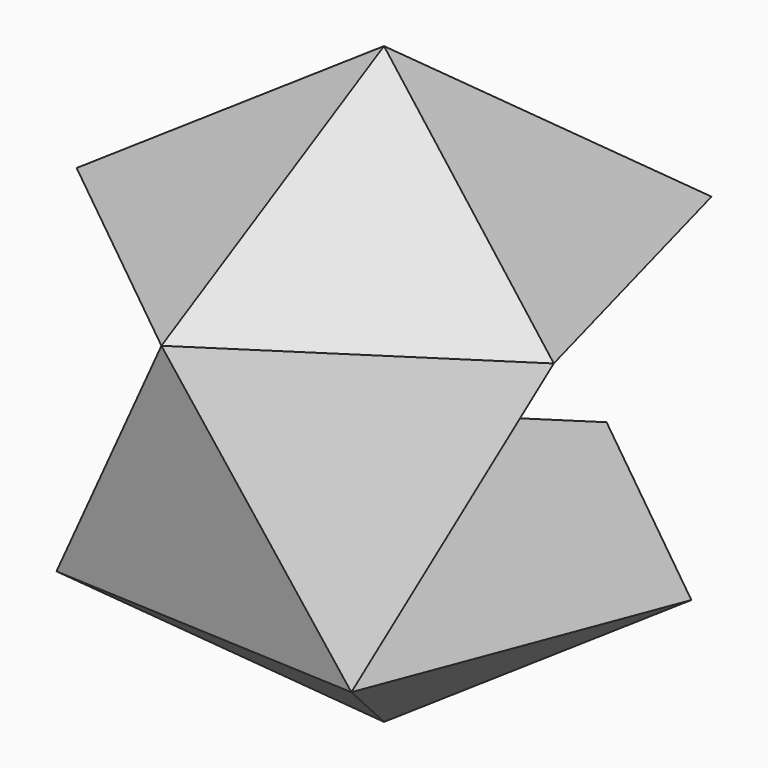
from build123d import *


with BuildPart() as f3:
    # F0 (on Top) → F3 section 0
    with BuildSketch(Plane.XY, mode=Mode.PRIVATE) as f3_s0:
        Polygon((-0.821367, -0.221276), (-0.043371, -0.849544), (0.794563, -0.303772), (0.534437, 0.661803), (-0.464262, 0.712789), align=None)
    loft([f3_s0.sketch, Vertex(0, 0, 0.52573)])



with BuildPart() as f9:
    # F6 (on offset) → F9 section 0
    with BuildSketch(Plane.XY.offset(-0.88113), mode=Mode.PRIVATE) as f9_s0:
        Polygon((-0.534437, -0.661803), (0.464262, -0.712789), (0.821367, 0.221276), (0.043371, 0.849544), (-0.794563, 0.303772), align=None)
    loft([Vertex(0, 0, -1.40686), f9_s0.sketch])


with BuildPart() as f3_1:
    add(f3.part)

    add(f9.part)  # F12 merges F9
    # F11 (on face) → F12 section 0
    with BuildSketch(Plane.XY.offset(-0.88113), mode=Mode.PRIVATE) as f12_s0:
        Polygon((0.464262, -0.712789), (0, 0), (-0.534437, -0.661803), align=None)
    loft([f12_s0.sketch, Vertex(-0.043371, -0.849544, 0)])

    # F10 (on face) → F13 section 0
    with BuildSketch(Plane(origin=(0, 0, 0), x_dir=(1, 0, 0), z_dir=(0, 0, -1)), mode=Mode.PRIVATE) as f13_s0:
        Polygon((-0.043371, 0.849544), (0, 0), (0.794563, 0.303772), align=None)
    loft([f13_s0.sketch, Vertex(0.464262, -0.712789, -0.88113)])


solid = f3_1.part
